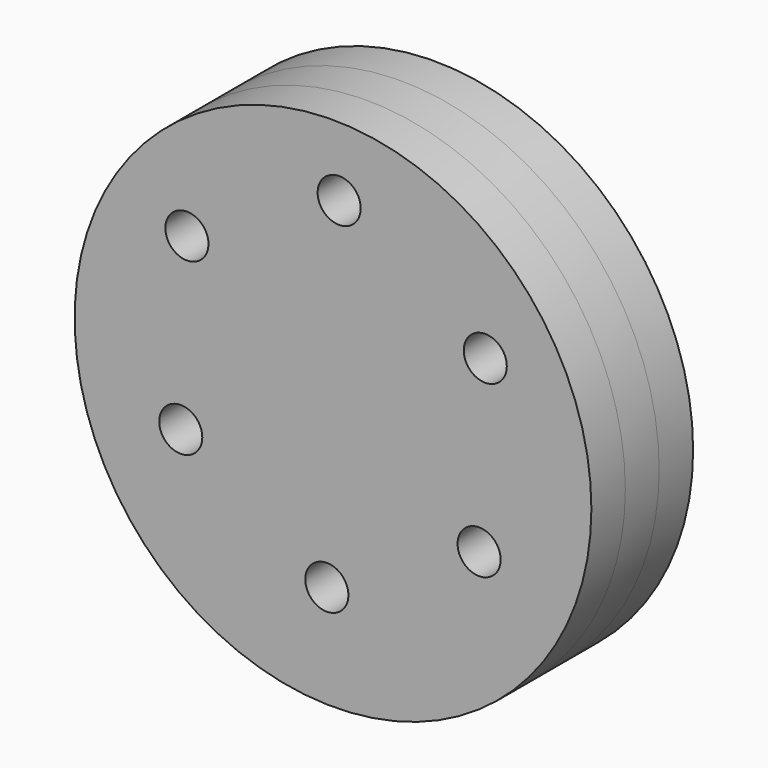
from build123d import *

# Parameters (mm, degrees)
F0_R     = 76.2
F0_R_2   = 6.35
F2_DEPTH = 25
F3_DEPTH = 12.5


with BuildPart() as f2:
    # F0 (on Front) → F2 (new body)
    with BuildSketch(Plane.XZ):
        with Locations((43.0863654652, -0.778224063)):
            Circle(F0_R)
        with Locations((41.2709153712, -46.5305998541)):
            Circle(F0_R_2, mode=Mode.SUBTRACT)
        with Locations((-1.8154500941, -19.5583739534)):
            Circle(F0_R_2, mode=Mode.SUBTRACT)
        with Locations((86.1727309304, -22.7028257549)):
            Circle(F0_R_2, mode=Mode.SUBTRACT)
        with Locations((0, 31.2416260466)):
            Circle(F0_R_2, mode=Mode.SUBTRACT)
        with Locations((87.9881810245, 28.0971742451)):
            Circle(F0_R_2, mode=Mode.SUBTRACT)
        with Locations((44.9018155593, 55.0694001459)):
            Circle(F0_R_2, mode=Mode.SUBTRACT)
    extrude(amount=F2_DEPTH)


with BuildPart() as f3:
    # F3 (new, symmetric): a face of the model
    f3_faces = [f2.part.faces().sort_by_distance(p)[0] for p in [
        (43.0863654652, 0, -0.9976859851),
    ]]
    extrude(f3_faces, amount=F3_DEPTH, both=True)


solid = Compound([f2.part, f3.part])
